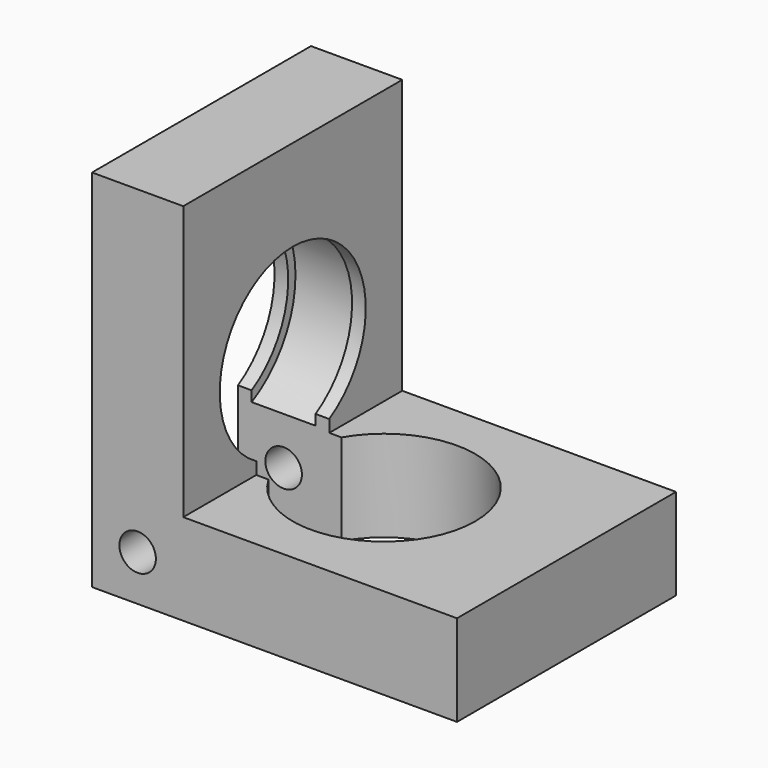
from build123d import *

# Parameters (mm, degrees)
CYLINDER_R              = 10
CYLINDER_DEPTH          = 10
CYLINDER001_R           = 2
CYLINDER001_DEPTH       = 30
CYLINDER001_ROLL_ANGLE  = -90
CYLINDER002_R           = 11
CYLINDER002_DEPTH       = 7
CYLINDER002_PITCH_ANGLE = 90
CYLINDER003_R           = 10
CYLINDER003_DEPTH       = 10
CYLINDER003_PITCH_ANGLE = 90
BOX001_W                = 15
BOX001_H                = 10
BOX001_DEPTH            = 15
BOX002_W                = 10
BOX002_H                = 30
BOX002_DEPTH            = 40
BOX_W                   = 40
BOX_H                   = 30
BOX_DEPTH               = 10


with BuildPart() as cylinder:
    # Cylinder → Cylinder (new body)
    with BuildSketch(Plane.XY.offset(-5)):
        Circle(CYLINDER_R)
    extrude(amount=CYLINDER_DEPTH)


with BuildPart() as cylinder001:
    # Cylinder001 → Cylinder001 (new body)
    with BuildSketch(Plane.XY):
        Circle(CYLINDER001_R)
    extrude(amount=CYLINDER001_DEPTH)


with BuildPart() as cylinder001_1:
    # Cylinder001 roll: moved
    add(cylinder001.part.rotate(Axis((0, 0, 0), (1, 0, 0)), CYLINDER001_ROLL_ANGLE))


with BuildPart() as cylinder001_2:
    # Cylinder001 placement: moved
    add(cylinder001_1.part.moved(Location((-15, -15, 0))))


with BuildPart() as bearing_cylinder:
    # Cylinder002 → Cylinder002 (new body)
    with BuildSketch(Plane.XY):
        Circle(CYLINDER002_R)
    extrude(amount=CYLINDER002_DEPTH)


with BuildPart() as bearing_cylinder_1:
    # Cylinder002 pitch: moved
    add(bearing_cylinder.part.rotate(Axis((0, 0, 0), (0, 1, 0)), CYLINDER002_PITCH_ANGLE))


with BuildPart() as bearing_cylinder_2:
    # Cylinder002 placement: moved
    add(bearing_cylinder_1.part.moved(Location((-18.5, 0, 15))))


with BuildPart() as bearing_cylinder_outer:
    # Cylinder003 → Cylinder003 (new body)
    with BuildSketch(Plane.XY):
        Circle(CYLINDER003_R)
    extrude(amount=CYLINDER003_DEPTH)


with BuildPart() as bearing_cylinder_outer_1:
    # Cylinder003 pitch: moved
    add(bearing_cylinder_outer.part.rotate(Axis((0, 0, 0), (0, 1, 0)), CYLINDER003_PITCH_ANGLE))


with BuildPart() as bearing_cylinder_outer_2:
    # Cylinder003 placement: moved
    add(bearing_cylinder_outer_1.part.moved(Location((-20, 0, 15))))


with BuildPart() as negative_fusion:
    # Box001 → Box001 (new body)
    with BuildSketch(Plane(origin=(-20, -5, -5), x_dir=(1, 0, 0), z_dir=(0, 0, 1))):
        with Locations((7.5, 5)):
            Rectangle(BOX001_W, BOX001_H)
    extrude(amount=BOX001_DEPTH)

    # Fusion: union Cylinder, Cylinder001, Bearing Cylinder, Bearing Cylinder Outer
    add(cylinder.part)
    add(cylinder001_2.part)
    add(bearing_cylinder_2.part)
    add(bearing_cylinder_outer_2.part)


with BuildPart() as cube002:
    # Box002 → Box002 (new body)
    with BuildSketch(Plane(origin=(-20, -15, -5), x_dir=(1, 0, 0), z_dir=(0, 0, 1))):
        with Locations((5, 15)):
            Rectangle(BOX002_W, BOX002_H)
    extrude(amount=BOX002_DEPTH)


with BuildPart() as cut:
    # Box → Box (new body)
    with BuildSketch(Plane(origin=(-20, -15, -5), x_dir=(1, 0, 0), z_dir=(0, 0, 1))):
        with Locations((20, 15)):
            Rectangle(BOX_W, BOX_H)
    extrude(amount=BOX_DEPTH)

    # Fusion001: union Cube002
    add(cube002.part)

    # Cut: cut Negative Fusion
    add(negative_fusion.part, mode=Mode.SUBTRACT)


solid = cut.part
